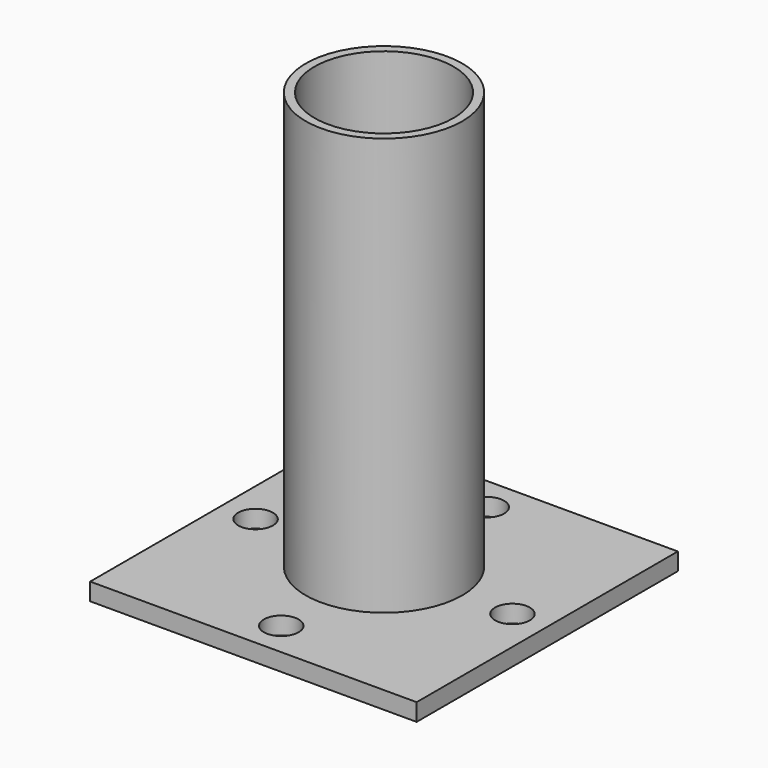
from build123d import *

# Parameters (mm, degrees)
F0_W     = 119.191186
F0_H     = 119.191186
F0_R     = 6.35
F1_DEPTH = 6.35
F2_R     = 28.575
F2_R_2   = 25.4
F3_DEPTH = 152.4


with BuildPart() as f1:
    # F0 (on Top) → F1 (new body)
    with BuildSketch(Plane.XY):
        Rectangle(F0_W, F0_H)
        with Locations((0, -46.895593)):
            Circle(F0_R, mode=Mode.SUBTRACT)
        with Locations((-46.895593, 0)):
            Circle(F0_R, mode=Mode.SUBTRACT)
        with Locations((46.895593, 0)):
            Circle(F0_R, mode=Mode.SUBTRACT)
        with Locations((0, 46.895593)):
            Circle(F0_R, mode=Mode.SUBTRACT)
    extrude(amount=F1_DEPTH)

    # F2 (on face) → F3 (join)
    with BuildSketch(Plane.XY.offset(6.35)):
        Circle(F2_R)
        Circle(F2_R_2, mode=Mode.SUBTRACT)
    extrude(amount=F3_DEPTH)


solid = f1.part
